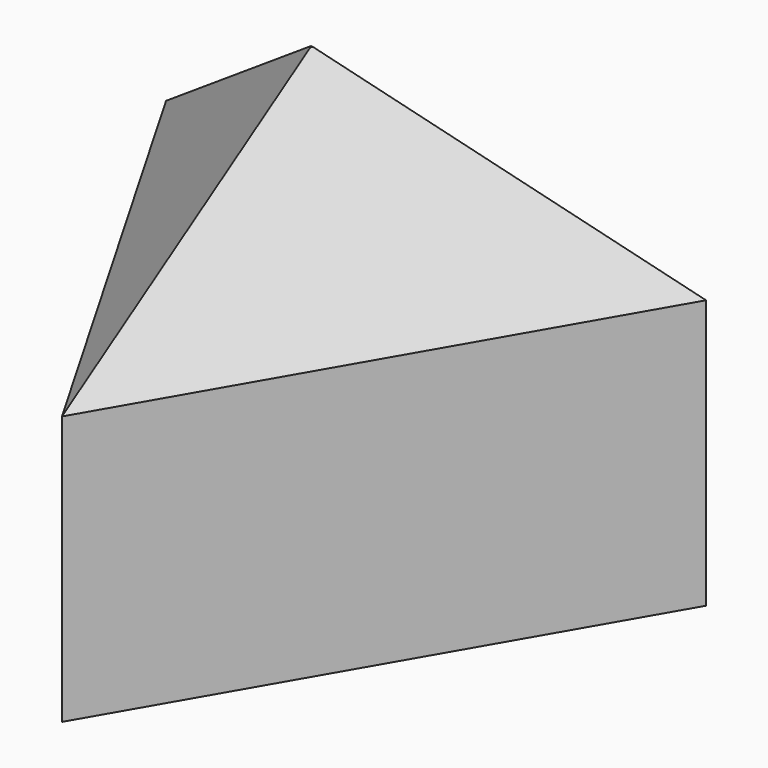
from build123d import *

# Parameters (mm, degrees)
F1_DEPTH = 6
F2_SIZE2 = 1.992278
F2_SIZE  = 2.55


with BuildPart() as f1:
    # F0 (on Top) → F1 (new body)
    with BuildSketch(Plane.XY):
        Polygon((3.464102, 2), (-3.464102, 2), (0, -4), align=None)
    extrude(amount=F1_DEPTH)

    # F2
    f2_edges = [f1.edges().sort_by_distance(p)[0] for p in [
        (1.732051, -1, 6),
        (-1.732051, -1, 6),
        (0, 2, 6),
    ]]
    chamfer(f2_edges, length=F2_SIZE, length2=F2_SIZE2)


solid = f1.part
